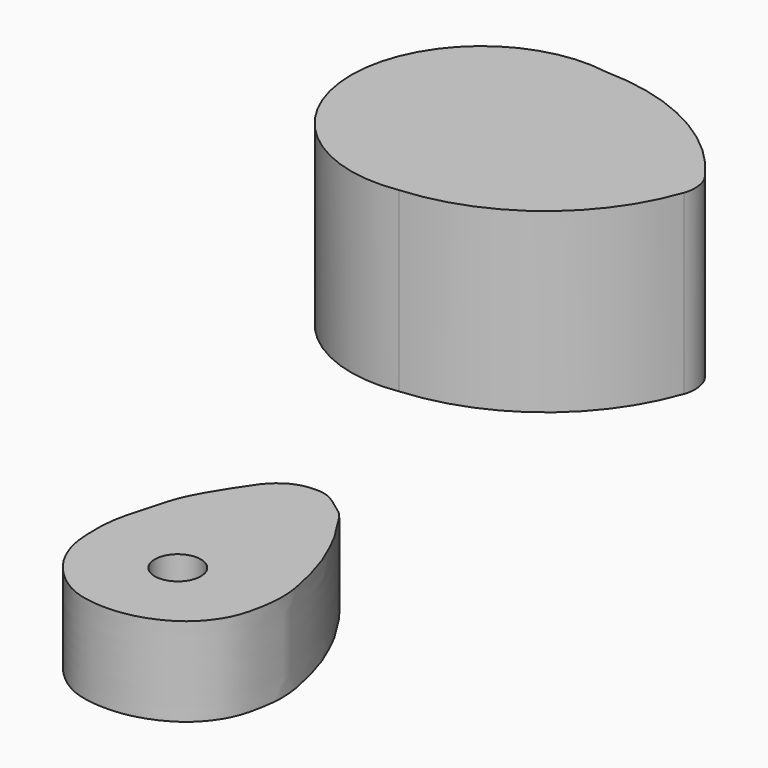
from build123d import *

# Parameters (mm, degrees)
F1_DEPTH = 12.7
F2_R     = 3.302
F3_DEPTH = 12.7
F5_DEPTH = 25.4
F6_R     = 5.08


with BuildPart() as f1:
    # F0 (on Top) → F1 (new body)
    with BuildSketch(Plane.XY):
        with BuildLine():
            add(Edge.make_bspline(
                [(-12.9044149071, -21.7910297215), (-12.2055978163, -21.8213996743), (-11.0067595639, -22.0882718474), (-8.9943535248, -23.5941612992), (-7.1012161149, -24.9014128231), (-5.8127489326, -27.5121516366), (-4.3632906539, -29.3963897805), (-3.2688314092, -31.8245095749), (-2.1292219337, -34.1721310942), (-0.8195060769, -38.2949241134), (0.1340237399, -42.7959857194), (0.1163779444, -45.9950413491), (-0.6719609126, -50.2945558642), (-1.9330187303, -52.9067546169), (-4.2989935306, -55.8252350355), (-8.0015693516, -57.8780613311), (-11.7116741146, -58.8516449522), (-15.7447235409, -58.840455064), (-19.346447773, -57.9490864975), (-22.3586269887, -55.6873660701), (-24.5851583148, -53.0716148762), (-26.0242084884, -49.8571779838), (-26.4969822365, -46.9056584247), (-26.5198202332, -42.7233426852), (-25.9492970155, -39.8481158501), (-24.7794732183, -35.9658679578), (-24.0641761223, -33.0565477244), (-22.3146081443, -29.6917197197), (-20.1520641843, -26.4026949283), (-18.5348206464, -23.9074453075), (-15.9594516536, -21.9746477506), (-13.7733518695, -21.7532665144), (-12.9044149071, -21.7910297215)],
                knots=[0, 0, 0, 0, 0.0253221001, 0.0538812859, 0.0818040358, 0.1125891034, 0.1411483044, 0.1705327429, 0.2001576294, 0.2384386394, 0.2777433474, 0.3108949145, 0.3486115108, 0.3799700464, 0.4149142266, 0.4524794633, 0.4883907596, 0.5249510343, 0.5600543753, 0.5952136769, 0.6292717955, 0.6630815445, 0.6951052992, 0.7320695718, 0.7640933265, 0.8005083064, 0.8325118906, 0.8680359356, 0.9045736237, 0.9361655902, 0.9685134937, 1, 1, 1, 1], degree=3))
        make_face()
    extrude(amount=F1_DEPTH)

    # F2 (on face) → F3 (cut)
    with BuildSketch(Plane.XY.offset(12.7)):
        with Locations((-13.4620005265, -46.2306439877)):
            Circle(F2_R)
    extrude(amount=-F3_DEPTH, mode=Mode.SUBTRACT)


with BuildPart() as f5:
    # F4 (on Top) → F5 (new body)
    with BuildSketch(Plane.XY):
        with BuildLine():
            ThreePointArc((-10.0505175069, 43.5522384942), (-20.991787951, 54.4309101096), (-35.8665511012, 58.5294850171))
            ThreePointArc((-35.8665511012, 58.5294850171), (-57.6956353149, 40.2197428422), (-36.0636226833, 21.6775853187))
            ThreePointArc((-36.0636226833, 21.6775853187), (-19.523236265, 28.4125142564), (-10.0505175069, 43.5522384942))
        make_face()
    extrude(amount=F5_DEPTH)

    # F6
    f6_edges = [f5.edges().sort_by_distance(p)[0] for p in [
        (-10.050518, 43.552238, 12.7),
    ]]
    fillet(f6_edges, radius=F6_R)


solid = Compound([f1.part, f5.part])
